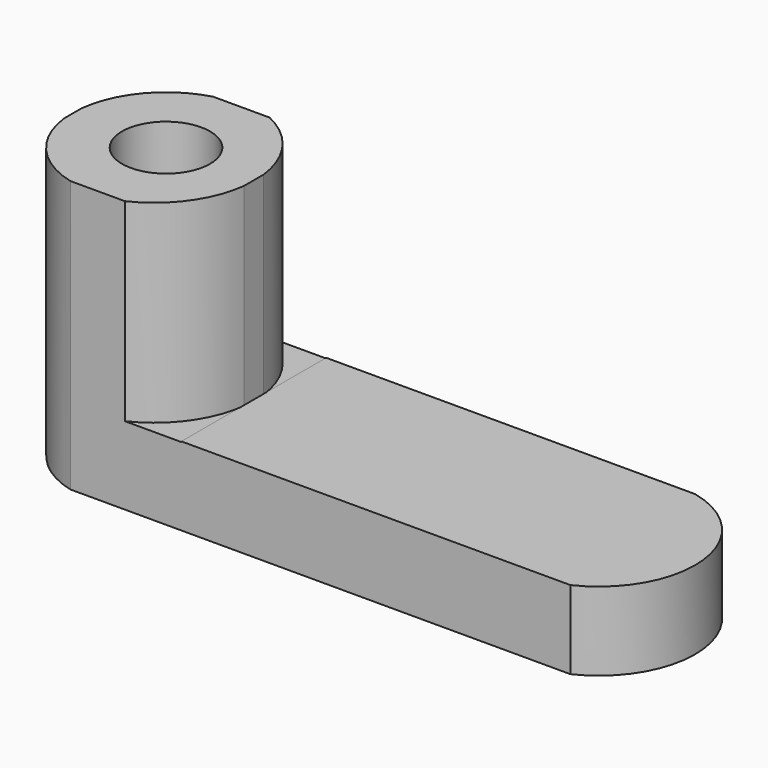
from build123d import *

# Parameters (mm, degrees)
F1_DEPTH  = 25.4
F3_DEPTH  = 25.4
F5_DEPTH  = 25.4
F7_DEPTH  = 25.4
F9_DEPTH  = 50.8
F11_DEPTH = 27.178
F13_DEPTH = 25.4
F14_R     = 6.1753595884
F15_DEPTH = 50.8


with BuildPart() as f1:
    # F0 (on Front) → F1 (new body)
    with BuildSketch(Plane.XZ):
        Polygon((-42.333334913, 38.1), (-42.333334913, 0), (46.566665087, 0), (46.566665087, 11.0066671406), (-16.933334913, 11.0066671406), (-16.933334913, 38.1), align=None)
    extrude(amount=F1_DEPTH)

    # F2 (on face) → F3 (cut)
    with BuildSketch(Plane.XZ.offset(25.4)):
        with BuildLine():
            ThreePointArc((-37.9148391216, 0), (-40.8140278818, 1.5211007742), (-42.333334913, 4.4212299399))
            Line((-42.333334913, 4.4212299399), (-42.333334913, 0))
            Line((-42.333334913, 0), (-37.9148391216, 0))
        make_face()
    extrude(amount=-F3_DEPTH, mode=Mode.SUBTRACT)

    # F4 (on face) → F5 (cut)
    with BuildSketch(Plane.XY.offset(11.0066671406)):
        with BuildLine():
            ThreePointArc((34.7993597388, 0), (45.3010079388, -11.6808324), (37.6517660916, -25.4))
            Line((37.6517660916, -25.4), (46.566665087, -25.4))
            Line((46.566665087, -25.4), (46.566665087, 0))
            Line((46.566665087, 0), (34.7993597388, 0))
        make_face()
    extrude(amount=-F5_DEPTH, mode=Mode.SUBTRACT)

    # F6 (on face) → F7 (cut)
    with BuildSketch(Plane.XY.offset(38.1)):
        with BuildLine():
            ThreePointArc((-16.933334913, -24.7742129951), (-12.9263389557, -18.5421251923), (-11.5236387204, -11.2670054659))
            ThreePointArc((-11.5236387204, -11.2670054659), (-49.0871210436, -3.583342718), (-17.5579703651, -25.4))
            Line((-17.5579703651, -25.4), (-42.333334913, -25.4))
            Line((-42.333334913, -25.4), (-42.333334913, 0))
            Line((-42.333334913, 0), (-16.933334913, 0))
            Line((-16.933334913, 0), (-16.933334913, -24.7742129951))
        make_face()
    extrude(amount=-F7_DEPTH, mode=Mode.SUBTRACT)

    # F8 (on face) → F9 (cut)
    with BuildSketch(Plane.XY.offset(38.1)):
        with BuildLine():
            ThreePointArc((-42.333334913, -11.1485840045), (-39.2676835177, -4.1212770864), (-32.8026749194, 0))
            Line((-32.8026749194, 0), (-42.333334913, 0))
            Line((-42.333334913, 0), (-42.333334913, -11.1485840045))
        make_face()
        with BuildLine():
            ThreePointArc((-32.5174331665, -25.4), (-39.1711473149, -21.3143901639), (-42.333334913, -14.1754344072))
            Line((-42.333334913, -14.1754344072), (-42.333334913, -25.4))
            Line((-42.333334913, -25.4), (-32.5174331665, -25.4))
        make_face()
    extrude(amount=-F9_DEPTH, mode=Mode.SUBTRACT)

    # F10 (on face) → F11 (cut)
    with BuildSketch(Plane.XY.offset(38.1)):
        with BuildLine():
            ThreePointArc((-24.8680049162, 0), (-19.4963079038, -4.4575302948), (-16.933334913, -10.95028584))
            Line((-16.933334913, -10.95028584), (-16.933334913, 0))
            Line((-16.933334913, 0), (-24.8680049162, 0))
        make_face()
        with BuildLine():
            ThreePointArc((-16.933334913, -14.44971416), (-19.4963079038, -20.9424697052), (-24.8680049162, -25.4))
            Line((-24.8680049162, -25.4), (-16.933334913, -25.4))
            Line((-16.933334913, -25.4), (-16.933334913, -14.44971416))
        make_face()
    extrude(amount=-F11_DEPTH, mode=Mode.SUBTRACT)

    # F12 (on face) → F13 (cut)
    with BuildSketch(Plane.XY.offset(11.0066671406)):
        with BuildLine():
            ThreePointArc((0, 2.0500258297), (-2.7772999757, 1.5187665416), (-5.1624582049, 0))
            Line((-5.1624582049, 0), (5.1624582049, 0))
            ThreePointArc((5.1624582049, 0), (2.7772999757, 1.5187665416), (0, 2.0500258297))
        make_face()
        with BuildLine():
            ThreePointArc((0, 2.0500258297), (2.7772999757, 1.5187665416), (5.1624582049, 0))
            Line((5.1624582049, 0), (15.1562278536, 0))
            ThreePointArc((15.1562278536, 0), (17.6040380518, 1.6191667448), (20.4805661222, 2.2014570285))
            Line((20.4805661222, 2.2014570285), (0, 2.0500258297))
        make_face()
        with BuildLine():
            ThreePointArc((20.4805661222, 2.2014570285), (17.6040380518, 1.6191667448), (15.1562278536, 0))
            Line((15.1562278536, 0), (25.9184243712, 0))
            ThreePointArc((25.9184243712, 0), (23.4180808332, 1.6406606681), (20.4805661222, 2.2014570285))
        make_face()
    extrude(amount=-F13_DEPTH, mode=Mode.SUBTRACT)

    # F14 (on face) → F15 (cut)
    with BuildSketch(Plane.XY.offset(38.1)):
        with Locations((-29.2770774571, -12.6620092059)):
            Circle(F14_R)
    extrude(amount=-F15_DEPTH, mode=Mode.SUBTRACT)


solid = f1.part
